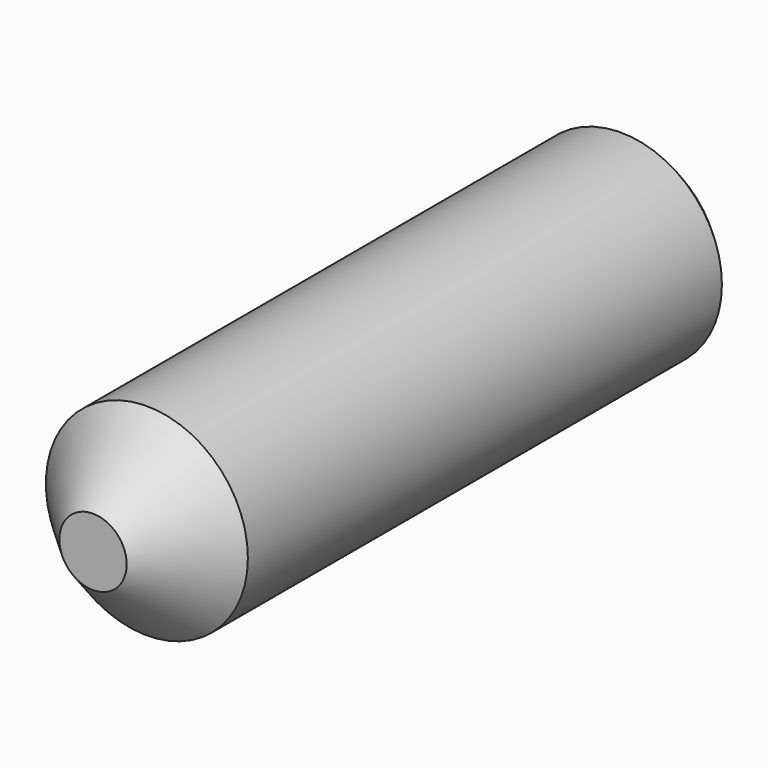
from build123d import *

# Parameters (mm, degrees)
POCKET_DEPTH    = 5
CHAMFER_SIZE    = 0.5
CHAMFER001_SIZE = 0.2


with BuildPart() as part:
    # Sketch → Revolution (revolve)
    with BuildSketch(Plane.XY):
        Polygon((0.5, -10), (1.5, -9), (1.5, 0), (0, 0), (0, -10), align=None)
    revolve(axis=Axis((0, 0, 0), (0, 1, 0)))

    # Sketch001 → Pocket (cut)
    with BuildSketch(Plane.XZ):
        Polygon((0.75, -0.433013), (0.75, 0.433013), (0, 0.866025), (-0.75, 0.433013), (-0.75, -0.433013), (0, -0.866025), align=None)
    extrude(amount=POCKET_DEPTH, mode=Mode.SUBTRACT)

    # Chamfer
    chamfer_edges = [part.edges().sort_by_distance(p)[0] for p in [
        (0.75, -5, 0),
        (0.375, -5, 0.649519),
        (-0.375, -5, 0.649519),
        (-0.75, -5, 0),
        (-0.375, -5, -0.649519),
        (0.375, -5, -0.649519),
    ]]
    chamfer(chamfer_edges, length=CHAMFER_SIZE)

    # Chamfer001
    chamfer001_edges = [part.edges().sort_by_distance(p)[0] for p in [
        (-1.5, 0, 0),
    ]]
    chamfer(chamfer001_edges, length=CHAMFER001_SIZE)


solid = part.part
